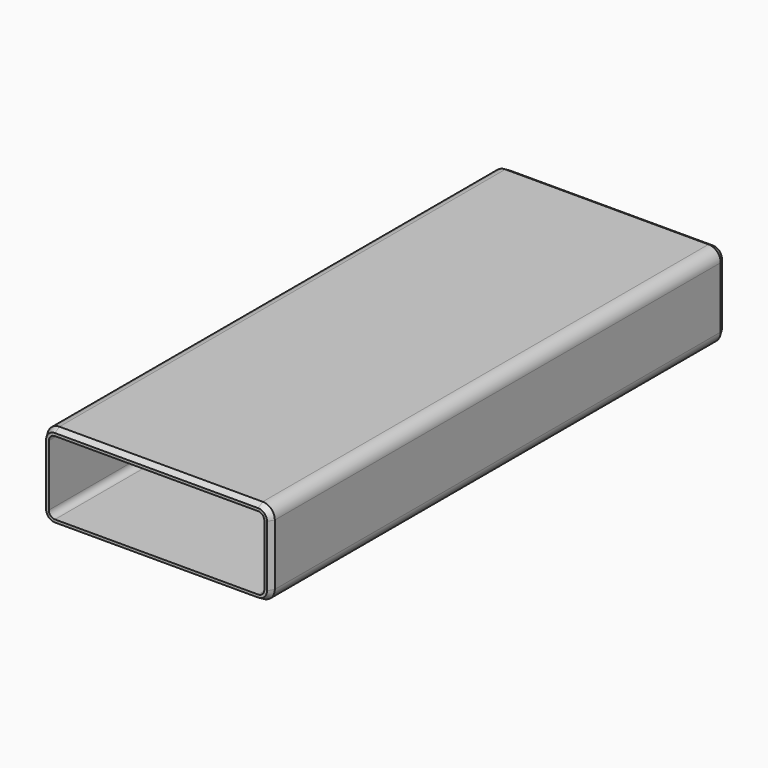
from build123d import *

# Parameters (mm, degrees)
F1_DEPTH = 30
F3_DEPTH = 0.315
F4_SIZE2 = 0.173205
F4_SIZE  = 0.3


with BuildPart() as f1:
    # F0 (on Front) → F1 (new body)
    with BuildSketch(Plane.XZ):
        with BuildLine():
            ThreePointArc((0, 0.64), (0.187452, 0.187452), (0.64, 0))
            Line((0.64, 0), (11.36, 0))
            ThreePointArc((11.36, 0), (11.812548, 0.187452), (12, 0.64))
            Line((12, 0.64), (12, 3.86))
            ThreePointArc((12, 3.86), (11.812548, 4.312548), (11.36, 4.5))
            Line((11.36, 4.5), (0.64, 4.5))
            ThreePointArc((0.64, 4.5), (0.187452, 4.312548), (0, 3.86))
            Line((0, 3.86), (0, 0.64))
        make_face()
        with BuildLine():
            ThreePointArc((0.315, 3.86), (0.41019, 4.08981), (0.64, 4.185))
            Line((0.64, 4.185), (11.36, 4.185))
            ThreePointArc((11.36, 4.185), (11.58981, 4.08981), (11.685, 3.86))
            Line((11.685, 3.86), (11.685, 0.64))
            ThreePointArc((11.685, 0.64), (11.58981, 0.41019), (11.36, 0.315))
            Line((11.36, 0.315), (0.64, 0.315))
            ThreePointArc((0.64, 0.315), (0.41019, 0.41019), (0.315, 0.64))
            Line((0.315, 0.64), (0.315, 3.86))
        make_face(mode=Mode.SUBTRACT)
    extrude(amount=F1_DEPTH)

    # F2 (on face) → F3 (cut, through all)
    with BuildSketch(Plane(origin=(0, 0, 0), x_dir=(1, 0, 0), z_dir=(0, 0, -1))):
        with BuildLine():
            ThreePointArc((8.5, 13.4), (7.797056, 15.097056), (6.1, 15.8))
            Line((6.1, 15.8), (5.9, 15.8))
            ThreePointArc((5.9, 15.8), (4.202944, 15.097056), (3.5, 13.4))
            Line((3.5, 13.4), (3.5, 6.2))
            ThreePointArc((3.5, 6.2), (4.202944, 4.502944), (5.9, 3.8))
            Line((5.9, 3.8), (6.1, 3.8))
            ThreePointArc((6.1, 3.8), (7.797056, 4.502944), (8.5, 6.2))
            Line((8.5, 6.2), (8.5, 13.4))
        make_face()
    extrude(amount=-F3_DEPTH, mode=Mode.SUBTRACT)

    # F4
    f4_edges = [f1.edges().sort_by_distance(p)[0] for p in [
        (6, 0, 0),
        (6, -30, 0),
    ]]
    chamfer(f4_edges, length=F4_SIZE, length2=F4_SIZE2)


solid = f1.part
